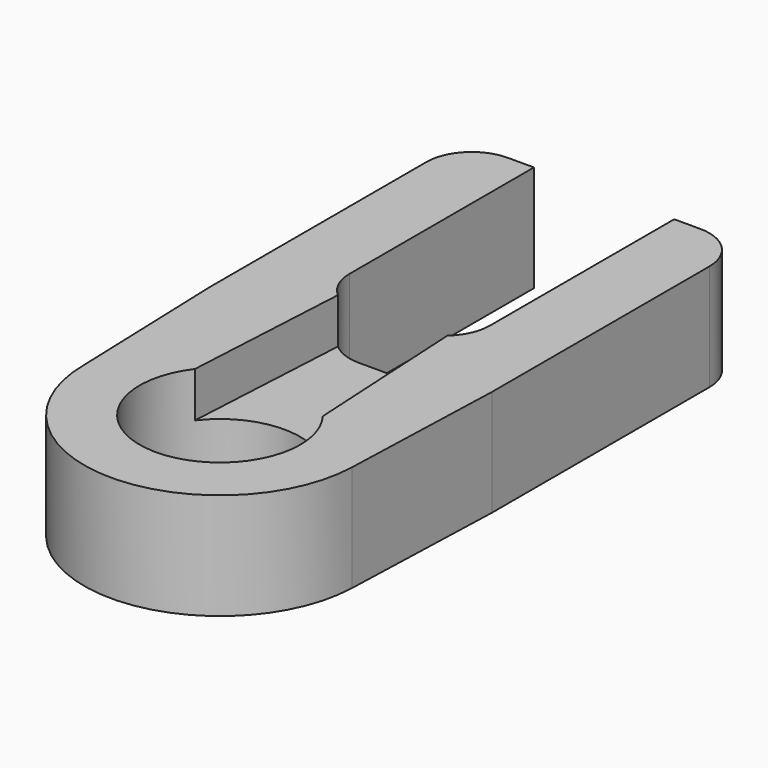
from build123d import *

# Parameters (mm, degrees)
SKETCH014_R      = 3.55
EXTRUDE004_DEPTH = 4.7
POCKET_DEPTH     = 2
FILLET006_R      = 2


with BuildPart() as part:
    # Sketch014 → Extrude004 (new body)
    with BuildSketch(Plane.XY):
        with BuildLine():
            Line((-6.25, 21.219667), (-3.1, 21.219667))
            Line((-3.1, 21.219667), (-3.1, 11.042747))
            ThreePointArc((-3.1, 11.042747), (-2.514214, 9.628534), (-1.1, 9.042747))
            Line((-1.1, 9.042747), (1.1, 9.042747))
            ThreePointArc((1.1, 9.042747), (2.514214, 9.628534), (3.1, 11.042747))
            Line((3.1, 21.219667), (3.1, 11.042747))
            Line((3.1, 21.219667), (6.25, 21.219667))
            Line((6.25, 21.219667), (6.25, 7.219667))
            Line((6.25, 7.219667), (5.996507, -0.204713))
            ThreePointArc((-6, 0), (-0.102371, -5.999127), (5.996507, -0.204713))
            Line((-6.25, 7.219635), (-6, 0))
            Line((-6.25, 7.219635), (-6.25, 21.219667))
        make_face()
        Circle(SKETCH014_R, mode=Mode.SUBTRACT)
    extrude(amount=EXTRUDE004_DEPTH)

    # Sketch015 (on Face15 of Extrude004) → Pocket (cut)
    with BuildSketch(Plane.XY.offset(4.7)):
        with BuildLine():
            ThreePointArc((-2.825, 2.149855), (0, -3.55), (2.825, 2.149855))
            Line((2.825, 2.149855), (2.4, 9.919679))
            Line((-2.4, 9.919679), (2.4, 9.919679))
            Line((-2.825, 2.149855), (-2.4, 9.919679))
        make_face()
    extrude(amount=-POCKET_DEPTH, mode=Mode.SUBTRACT)

    # Fillet006
    fillet006_edges = [part.edges().sort_by_distance(p)[0] for p in [
        (6.25, 21.219667, 2.35),
        (-6.25, 21.219667, 2.35),
    ]]
    fillet(fillet006_edges, radius=FILLET006_R)


solid = part.part
